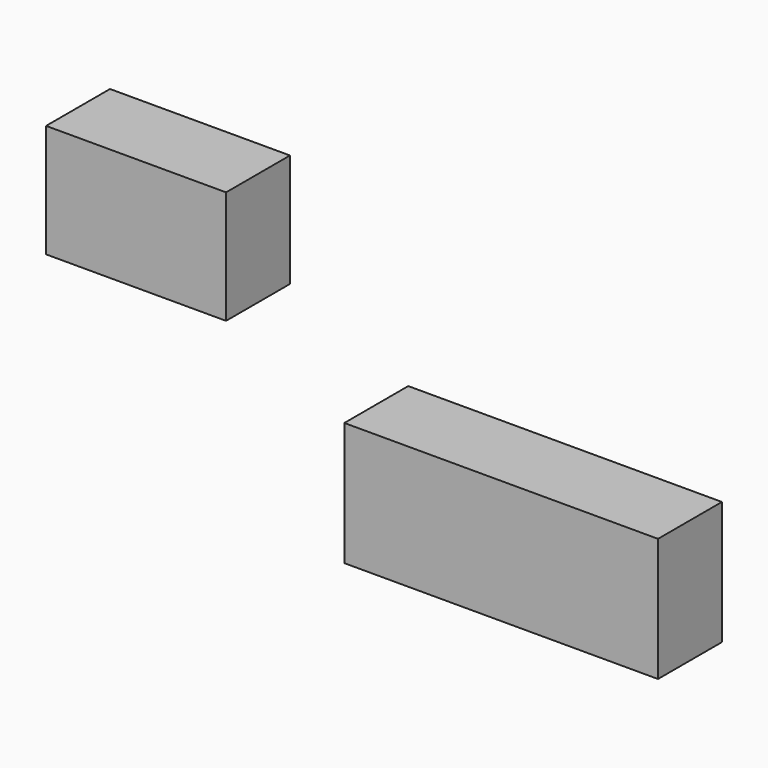
from build123d import *

# Parameters (mm, degrees)
F0_W     = 57.225868
F0_H     = 35.970546
F1_DEPTH = 25.4
F2_DEPTH = 25.4


with BuildPart() as f1:
    # F0 (on Front) → F1 (new body)
    with BuildSketch(Plane.XZ):
        with Locations((-116.291143, 54.364577)):
            Rectangle(F0_W, F0_H)
    extrude(amount=F1_DEPTH)

    # F0 (on Front) → F2 (join)
    with BuildSketch(Plane.XZ):
        Polygon((-50.072639, -19.211542), (49.663883, -19.211542), (49.663883, 20.029054), (-50.072639, 20.029054), (-50.072639, 4.087562), align=None)
        with Locations((-116.291143, 54.364577)):
            Rectangle(F0_W, F0_H)
    extrude(amount=F2_DEPTH)


solid = f1.part
